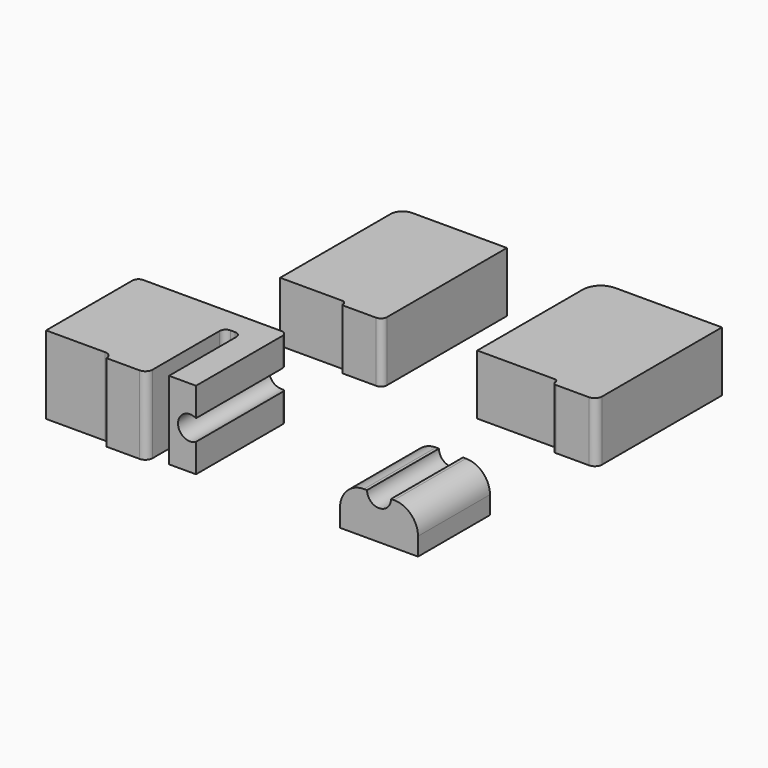
from build123d import *

# Parameters (mm, degrees)
PAD_DEPTH       = 20
PAD001_DEPTH    = 20
PAD002_DEPTH    = 26
SKETCH003_R     = 4
POCKET_DEPTH    = 38
FILLET_R        = 2
SKETCH004_W     = 26
SKETCH004_H     = 30
PAD003_DEPTH    = 14
SKETCH005_R     = 4
POCKET001_DEPTH = 30
FILLET001_R     = 8


with BuildPart() as body:
    # Sketch → Pad (new body)
    with BuildSketch(Plane.XY):
        with BuildLine():
            Line((26, 70), (61.6, 70))
            Line((61.6, 70), (61.6, 20))
            ThreePointArc((59.2, 17.6), (60.897056, 18.302944), (61.6, 20))
            Line((48.2, 17.6), (59.2, 17.6))
            ThreePointArc((47, 18.8), (47.351472, 17.951472), (48.2, 17.6))
            ThreePointArc((47, 18.8), (46.648528, 19.648528), (45.8, 20))
            Line((20, 20), (45.8, 20))
            Line((20, 20), (20, 64))
            ThreePointArc((26, 70), (21.757359, 68.242641), (20, 64))
        make_face()
    extrude(amount=PAD_DEPTH)


with BuildPart() as body001:
    # Sketch001 → Pad001 (new body)
    with BuildSketch(Plane.XY):
        with BuildLine():
            Line((-41.707622, 70), (-10.107622, 70))
            Line((-10.107622, 70), (-10.107622, 20))
            ThreePointArc((-12.107604, 18), (-10.693402, 18.585793), (-10.107622, 20))
            Line((-23.107604, 18), (-12.107604, 18))
            ThreePointArc((-23.506873, 18.375817), (-23.381764, 18.108733), (-23.107604, 18))
            ThreePointArc((-23.506873, 18.375817), (-23.975502, 19.507188), (-25.106873, 19.975817))
            Line((-45.707622, 19.975817), (-25.106873, 19.975817))
            Line((-45.707622, 19.975817), (-45.707622, 66))
            ThreePointArc((-41.707622, 70), (-44.536049, 68.828427), (-45.707622, 66))
        make_face()
    extrude(amount=PAD001_DEPTH)


with BuildPart() as body002:
    # Sketch002 → Pad002 (new body)
    with BuildSketch(Plane.XY):
        with BuildLine():
            Line((-65.567929, -12.279267), (-19.567929, -12.279267))
            ThreePointArc((-17.567929, -14.279267), (-18.153716, -12.865054), (-19.567929, -12.279267))
            Line((-17.567929, -14.279267), (-17.567929, -50.279267))
            Line((-26.567929, -50.279267), (-17.567929, -50.279267))
            Line((-26.567929, -20.279267), (-26.567929, -50.279267))
            Line((-32.067929, -20.279267), (-26.567929, -20.279267))
            Line((-32.067929, -50.279267), (-32.067929, -20.279267))
            ThreePointArc((-34.467929, -52.679267), (-32.770873, -51.976324), (-32.067929, -50.279267))
            Line((-45.467929, -52.679267), (-34.467929, -52.679267))
            ThreePointArc((-45.467929, -52.679267), (-46.170873, -50.982211), (-47.867929, -50.279267))
            Line((-67.567929, -50.279267), (-47.867929, -50.279267))
            Line((-67.567929, -14.279267), (-67.567929, -50.279267))
            ThreePointArc((-65.567929, -12.279267), (-66.982143, -12.865054), (-67.567929, -14.279267))
        make_face()
    extrude(amount=PAD002_DEPTH)

    # Sketch003 (on Face5 of Pad002) → Pocket (cut)
    with BuildSketch(Plane.XZ.offset(50.279267)):
        with Locations((-19.567929, 13)):
            Circle(SKETCH003_R)
    extrude(amount=-POCKET_DEPTH, mode=Mode.SUBTRACT)

    # Fillet
    fillet_edges = [body002.edges().sort_by_distance(p)[0] for p in [
        (-32.067929, -20.279267, 13),
        (-26.567929, -20.279267, 13),
    ]]
    fillet(fillet_edges, radius=FILLET_R)


with BuildPart() as body003:
    # Sketch004 → Pad003 (new body)
    with BuildSketch(Plane.XY):
        with Locations((43.578081, -35.417926)):
            Rectangle(SKETCH004_W, SKETCH004_H)
    extrude(amount=PAD003_DEPTH)

    # Sketch005 (on Face2 of Pad003) → Pocket001 (cut)
    with BuildSketch(Plane.XZ.offset(50.417926)):
        with Locations((43.578081, 14)):
            Circle(SKETCH005_R)
    extrude(amount=-POCKET001_DEPTH, mode=Mode.SUBTRACT)

    # Fillet001
    fillet001_edges = [body003.edges().sort_by_distance(p)[0] for p in [
        (56.578081, -35.417926, 14),
        (30.578081, -35.417926, 14),
    ]]
    fillet(fillet001_edges, radius=FILLET001_R)


solid = Compound([body.part, body001.part, body002.part, body003.part])
